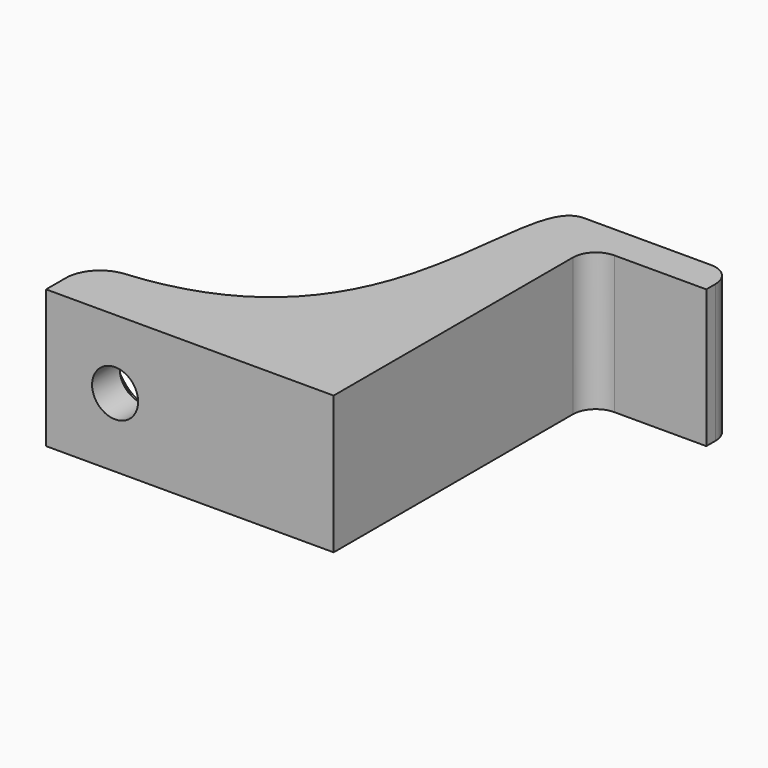
from build123d import *

# Parameters (mm, degrees)
F1_DEPTH       = 12
F4_D           = 4
F4_DEPTH       = 5
F4_CSINK_D     = 8
F4_CSINK_ANGLE = 90
F4_TIP         = 1.2017212381
F3_R           = 4
F5_DEPTH       = 26.0010001


with BuildPart() as f1:
    # F0 (on Top) → F1 (new body)
    with BuildSketch(Plane.XY):
        with BuildLine():
            Line((-25, 0), (0, 0))
            Line((0, 0), (0, 26))
            ThreePointArc((0, 26), (0.5857864376, 27.4142135624), (2, 28))
            Line((2, 28), (10, 28))
            Line((10, 28), (10, 29))
            ThreePointArc((10, 29), (9.4142135624, 30.4142135624), (8, 31))
            Line((8, 31), (-3, 31))
            add(Edge.make_bspline(
                [(-3, 31), (-8.7686244949, 31), (-0.6718204217, 6.9665904818), (-22.256677699, 5.1130097266)],
                knots=[0, 0, 0, 0, 32.7453784414, 32.7453784414, 32.7453784414, 32.7453784414], degree=3))
            ThreePointArc((-22.256677699, 5.1130097266), (-24.2102073542, 4.1525526681), (-25, 2.1240104696))
            Line((-25, 2.1240104696), (-25, 0))
        make_face()
    extrude(amount=F1_DEPTH)

    # F4
    with Locations(Plane(origin=(0, 5, 0), x_dir=(1, 0, 0), z_dir=(0, 1, 0))):
        with Locations((-19, -6)):
            CounterSinkHole(F4_D / 2, F4_CSINK_D / 2, depth=F4_DEPTH, counter_sink_angle=F4_CSINK_ANGLE)
            with Locations((0, 0, -(F4_DEPTH + F4_TIP / 2))):  # 118° drill point
                Cone(0, F4_D / 2, F4_TIP, mode=Mode.SUBTRACT)

    # F3 (on offset) → F5 (cut, through all)
    with BuildSketch(Plane.XZ.offset(-5)):
        with Locations((-19, 6)):
            Circle(F3_R)
    extrude(amount=-F5_DEPTH, mode=Mode.SUBTRACT)


solid = f1.part
